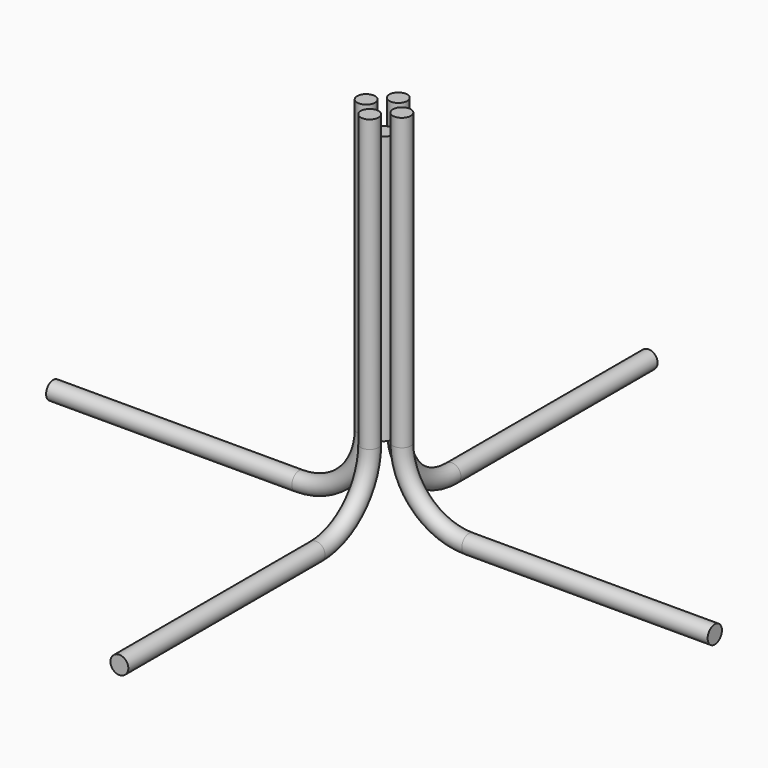
from build123d import *

# Parameters (mm, degrees)
F2_R     = 10
F5_COUNT = 4
F7_R     = 10
F8_DEPTH = 300


with BuildPart() as f3:
    # F3: sweep along a path in F0
    with BuildLine(Plane.XZ) as f3_path:
        Line((-370, 0), (-95, 0))
        ThreePointArc((-95, 0), (-41.966991411, 21.966991411), (-20, 75))
        Line((-20, 75), (-20, 400))
    # F2 (on plane+point) → F3 (sweep)
    with BuildSketch(Plane.YZ.offset(-370)):
        Circle(F2_R)
    sweep(path=f3_path.line)


with BuildPart() as f5_1:
    # F5: instance of F3
    add(f3.part.rotate(Axis((0, 0, 97.4842235446), (0, 0, 1)), 1 * 360 / F5_COUNT))


with BuildPart() as f5_2:
    # F5: instance of F3
    add(f3.part.rotate(Axis((0, 0, 97.4842235446), (0, 0, 1)), 2 * 360 / F5_COUNT))


with BuildPart() as f5_3:
    # F5: instance of F3
    add(f3.part.rotate(Axis((0, 0, 97.4842235446), (0, 0, 1)), 3 * 360 / F5_COUNT))


with BuildPart() as f8:
    # F7 (on offset) → F8 (new body, through all)
    with BuildSketch(Plane.XY.offset(75)):
        Circle(F7_R)
    extrude(amount=F8_DEPTH)


solid = Compound([f3.part, f5_1.part, f5_2.part, f5_3.part, f8.part])
